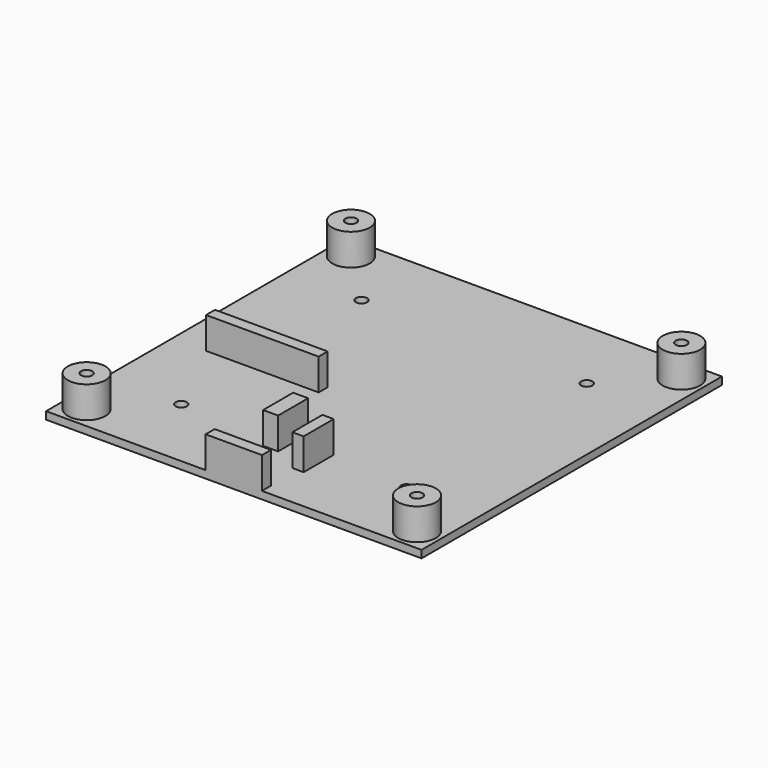
from build123d import *

# Parameters (mm, degrees)
SKETCH_W      = 100
SKETCH_H      = 100
SKETCH_R      = 1.5
PAD_DEPTH     = 2
SKETCH005_R   = 5
SKETCH005_R_2 = 1.5
PAD001_DEPTH  = 8.4
SKETCH007_W   = 4
SKETCH007_H   = 10
SKETCH007_W_2 = 3
SKETCH007_W_3 = 15
SKETCH007_H_2 = 3
SKETCH007_W_4 = 30
PAD002_DEPTH  = 8.4
POCKET_DEPTH  = 7.4


with BuildPart() as part:
    # Sketch → Pad (new body)
    with BuildSketch(Plane.XY):
        Rectangle(SKETCH_W, SKETCH_H)
        with Locations((-30, -30)):
            Circle(SKETCH_R, mode=Mode.SUBTRACT)
        with Locations((30, -30)):
            Circle(SKETCH_R, mode=Mode.SUBTRACT)
        with Locations((30, 30)):
            Circle(SKETCH_R, mode=Mode.SUBTRACT)
        with Locations((-30, 30)):
            Circle(SKETCH_R, mode=Mode.SUBTRACT)
        with Locations((-44, 44)):
            Circle(SKETCH_R, mode=Mode.SUBTRACT)
        with Locations((44, 44)):
            Circle(SKETCH_R, mode=Mode.SUBTRACT)
        with Locations((44, -44)):
            Circle(SKETCH_R, mode=Mode.SUBTRACT)
        with Locations((-44, -44)):
            Circle(SKETCH_R, mode=Mode.SUBTRACT)
    extrude(amount=PAD_DEPTH)

    # Sketch005 → Pad001 (join)
    with BuildSketch(Plane.XY.offset(2)):
        with Locations((-44, -44)):
            Circle(SKETCH005_R)
        with Locations((-44, -44)):
            Circle(SKETCH005_R_2, mode=Mode.SUBTRACT)
        with Locations((-44, 44)):
            Circle(SKETCH005_R)
        with Locations((-44, 44)):
            Circle(SKETCH005_R_2, mode=Mode.SUBTRACT)
        with Locations((44, 44)):
            Circle(SKETCH005_R)
        with Locations((44, 44)):
            Circle(SKETCH005_R_2, mode=Mode.SUBTRACT)
        with Locations((44, -44)):
            Circle(SKETCH005_R)
        with Locations((44, -44)):
            Circle(SKETCH005_R_2, mode=Mode.SUBTRACT)
    extrude(amount=PAD001_DEPTH)

    # Sketch007 → Pad002 (join)
    with BuildSketch(Plane.XY.offset(2)):
        with Locations((-3, -29)):
            Rectangle(SKETCH007_W, SKETCH007_H)
        with Locations((7.5, -33)):
            Rectangle(SKETCH007_W_2, SKETCH007_H)
        with Locations((0, -48.5)):
            Rectangle(SKETCH007_W_3, SKETCH007_H_2)
        with Locations((-26, -6.5)):
            Rectangle(SKETCH007_W_4, SKETCH007_H_2)
    extrude(amount=PAD002_DEPTH)

    # Sketch006 → Pocket (cut)
    with BuildSketch(Plane(origin=(0, 0, 0), x_dir=(1, 0, 0), z_dir=(0, 0, -1))):
        Polygon((-40.75, 44), (-42.375, 46.814583), (-45.625, 46.814583), (-47.25, 44), (-45.625, 41.185417), (-42.375, 41.185417), align=None)
        Polygon((45.625, 46.814583), (42.375, 46.814583), (40.75, 44), (42.375, 41.185417), (45.625, 41.185417), (47.25, 44), align=None)
        Polygon((45.625, -41.185417), (42.375, -41.185417), (40.75, -44), (42.375, -46.814583), (45.625, -46.814583), (47.25, -44), align=None)
        Polygon((-40.75, -44), (-42.375, -41.185417), (-45.625, -41.185417), (-47.25, -44), (-45.625, -46.814583), (-42.375, -46.814583), align=None)
    extrude(amount=-POCKET_DEPTH, mode=Mode.SUBTRACT)


solid = part.part
